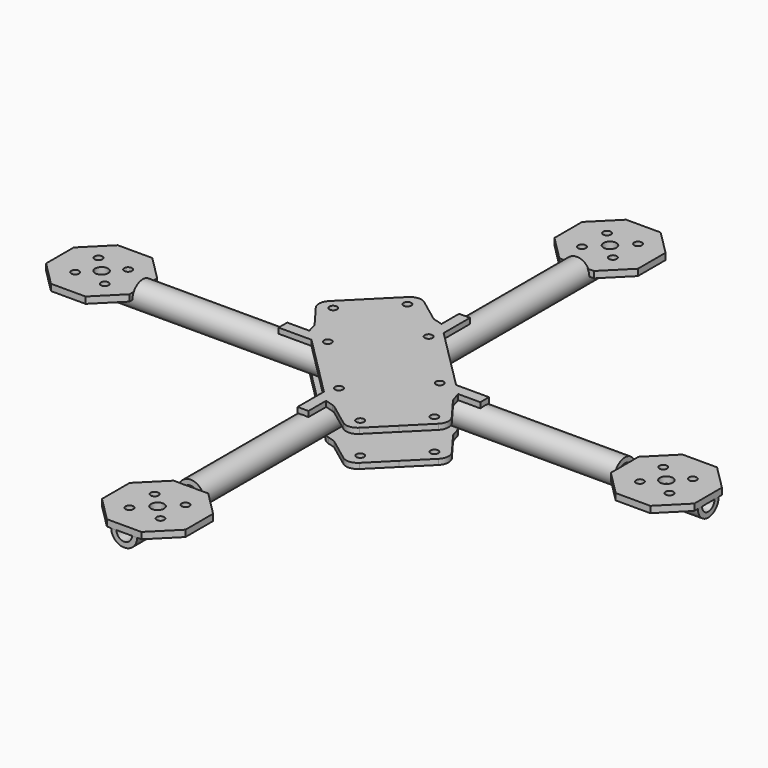
from build123d import *

# Parameters (mm, degrees)
F0_R      = 5
F0_R_2    = 3
F1_DEPTH  = 125
F2_R      = 5
F2_R_2    = 3
F3_DEPTH  = 125
F4_W      = 32.1564
F4_H      = 10
F4_W_2    = 10
F4_H_2    = 32.1564
F5_DEPTH  = 5
F6_R      = 1.5
F6_R_2    = 2.5
F7_DEPTH  = 2.5
F10_START = 4.9
F9_R      = 1.5
F10_DEPTH = 2.1
F11_START = -4.9
F8_R      = 1.5
F11_DEPTH = 2.1
F13_R     = 4.5
F14_DEPTH = 4.9
F15_DEPTH = 1.8


with BuildPart() as f1:
    # F0 (on Front) → F1 (new body, symmetric)
    with BuildSketch(Plane.XZ):
        Circle(F0_R)
        Circle(F0_R_2, mode=Mode.SUBTRACT)
    extrude(amount=F1_DEPTH, both=True)

    # F2 (on Right) → F3 (join, symmetric)
    with BuildSketch(Plane.YZ):
        Circle(F2_R)
        Circle(F2_R_2, mode=Mode.SUBTRACT)
    extrude(amount=F3_DEPTH, both=True)

    # F4 (on Top) → F5 (cut)
    with BuildSketch(Plane.XY):
        with Locations((-108.9321598411, 0)):
            Rectangle(F4_W, F4_H)
        with Locations((108.967140317, 0)):
            Rectangle(F4_W, F4_H)
        with Locations((0, -109.0278699994)):
            Rectangle(F4_W_2, F4_H_2)
        with Locations((0, 109.0732887387)):
            Rectangle(F4_W_2, F4_H_2)
    extrude(amount=F5_DEPTH, mode=Mode.SUBTRACT)

    # F9 (on Top) → F10 (join)
    with BuildSketch(Plane.XY.offset(F10_START)):
        Polygon((-2.1103437409, -26.1876452635), (-2.1221400494, -38.8710911611), (2.0778599506, -38.8749973941), (2.0857654189, -30.3750010704), (5.9862002003, -31.4909389315), (18.1213715317, -40.5843017695), (29.3425025053, -29.3759454568), (40.5636334788, -18.1675891441), (31.4840996514, -6.0220674828), (30.3726054794, -2.1203640728), (38.8726052937, -2.1221409117), (38.8734832615, 2.077860813), (26.1900321555, 2.0805121601), (14.1501879482, 14.1340787118), (2.1103437409, 26.1876452635), (2.1221400494, 38.8710911611), (-2.0778599506, 38.8749973941), (-2.0857654189, 30.3750010704), (-5.9862002003, 31.4909389315), (-18.1213715317, 40.5843017695), (-29.3425025053, 29.3759454568), (-40.5636334788, 18.1675891441), (-31.4840996514, 6.0220674828), (-30.3726054794, 2.1203640728), (-38.8726052937, 2.1221409117), (-38.8734832615, -2.077860813), (-26.1900321555, -2.0805121601), (-14.1501879482, -14.1340787118), align=None)
        with Locations((-0.0122832928, -21.5667533282)):
            Circle(F9_R, mode=Mode.SUBTRACT)
        with Locations((18.1213715317, -34.0167023034)):
            Circle(F9_R, mode=Mode.SUBTRACT)
        with Locations((33.9960382735, -18.1601080254)):
            Circle(F9_R, mode=Mode.SUBTRACT)
        with Locations((21.5667533282, -0.0122832928)):
            Circle(F9_R, mode=Mode.SUBTRACT)
        with Locations((-21.5667533282, 0.0122832928)):
            Circle(F9_R, mode=Mode.SUBTRACT)
        with Locations((-33.9960382735, 18.1601080254)):
            Circle(F9_R, mode=Mode.SUBTRACT)
        with Locations((-18.1213715317, 34.0167023034)):
            Circle(F9_R, mode=Mode.SUBTRACT)
        with Locations((0.0122832928, 21.5667533282)):
            Circle(F9_R, mode=Mode.SUBTRACT)
    extrude(amount=F10_DEPTH)

    # F8 (on Top) → F11 (join)
    with BuildSketch(Plane.XY.offset(F11_START)):
        Polygon((-30.3480259508, 2.1203644871), (2.1103449474, -30.375000656), (6.0107797288, -31.4909385172), (18.1459510603, -40.5843013552), (29.3670820338, -29.3759450425), (40.5882130073, -18.1675887297), (31.5086791799, -6.0220670685), (30.3971850079, -2.1203636585), (-2.0611858903, 30.3750014847), (-5.9616206717, 31.4909393458), (-18.0967920032, 40.5843021838), (-29.3179229767, 29.3759458711), (-40.5390539503, 18.1675895584), (-31.4595201228, 6.0220678971), align=None)
        with Locations((0.0122962358, -21.5667529139)):
            Circle(F8_R, mode=Mode.SUBTRACT)
        with Locations((18.1459510603, -34.0167018891)):
            Circle(F8_R, mode=Mode.SUBTRACT)
        with Locations((34.0206178021, -18.1601076111)):
            Circle(F8_R, mode=Mode.SUBTRACT)
        with Locations((21.5913328568, -0.0122828784)):
            Circle(F8_R, mode=Mode.SUBTRACT)
        with Locations((-21.5421737997, 0.0122837071)):
            Circle(F8_R, mode=Mode.SUBTRACT)
        with Locations((-33.971458745, 18.1601084397)):
            Circle(F8_R, mode=Mode.SUBTRACT)
        with Locations((-18.0967920032, 34.0167027177)):
            Circle(F8_R, mode=Mode.SUBTRACT)
        with Locations((0.0368628213, 21.5667537425)):
            Circle(F8_R, mode=Mode.SUBTRACT)
    extrude(amount=-F11_DEPTH)

    # F13
    f13_edges = [f1.edges().sort_by_distance(p)[0] for p in [
        (-40.539054, 18.16759, -5.95),
        (-30.348026, 2.120364, -5.95),
        (2.110345, -30.375001, -5.95),
        (18.145951, -40.584301, -5.95),
        (18.121372, -40.584302, 5.95),
        (5.9862, -31.490939, 5.95),
        (40.563633, -18.167589, 5.95),
        (31.4841, -6.022067, 5.95),
        (40.588213, -18.167589, -5.95),
        (31.508679, -6.022067, -5.95),
        (30.397185, -2.120364, -5.95),
        (-40.563633, 18.167589, 5.95),
        (-18.096792, 40.584302, -5.95),
        (-18.121372, 40.584302, 5.95),
    ]]
    fillet(f13_edges, radius=F13_R)

    # F12 (on Top) → F14 (cut)
    with BuildSketch(Plane.XY):
        Polygon((4.5961940777, -23.6880771697), (23.6880771697, -4.5961940777), (-4.5961940777, 23.6880771697), (-23.6880771697, 4.5961940777), align=None)
    extrude(amount=F14_DEPTH, mode=Mode.SUBTRACT)

    # F12 (on Top) → F15 (cut)
    with BuildSketch(Plane.XY):
        Polygon((4.5961940777, -23.6880771697), (23.6880771697, -4.5961940777), (-4.5961940777, 23.6880771697), (-23.6880771697, 4.5961940777), align=None)
    extrude(amount=-F15_DEPTH, mode=Mode.SUBTRACT)


with BuildPart() as f7:
    # F6 (on Top) → F7 (new body)
    with BuildSketch(Plane.XY):
        Polygon((-124.9948428626, 6.9392809492), (-124.9948428626, -6.3758818525), (-115.5796009529, -15.7911237622), (-102.2644381512, -15.7911237622), (-92.8491962416, -6.3758818525), (-92.8491962416, 6.9392809492), (-102.2644381512, 16.3545228588), (-115.5796009529, 16.3545228588), align=None)
        with Locations((-114.5792737574, -5.374754717)):
            Circle(F6_R, mode=Mode.SUBTRACT)
        with Locations((-102.9116119402, -5.72870812)):
            Circle(F6_R, mode=Mode.SUBTRACT)
        with Locations((-114.9324271639, 6.2921072167)):
            Circle(F6_R, mode=Mode.SUBTRACT)
        with Locations((-108.9220195521, 0.2816995483)):
            Circle(F6_R_2, mode=Mode.SUBTRACT)
        with Locations((-103.2647653467, 5.9381538137)):
            Circle(F6_R, mode=Mode.SUBTRACT)
    extrude(amount=F7_DEPTH)


with BuildPart() as f7b:
    # F6 (on Top) → F7, piece 2 (new body)
    with BuildSketch(Plane.XY):
        Polygon((6.7628073185, 124.8734737628), (-6.5523554832, 124.8734737628), (-15.9675973928, 115.4582318532), (-15.9675973928, 102.1430690515), (-6.5523554832, 92.7278271418), (6.7628073185, 92.7278271418), (16.1780492282, 102.1430690515), (16.1780492282, 115.4582318532), align=None)
        with Locations((-5.9051817507, 102.7902428405)):
            Circle(F6_R, mode=Mode.SUBTRACT)
        with Locations((-5.5512283477, 114.4579046577)):
            Circle(F6_R, mode=Mode.SUBTRACT)
        with Locations((5.761680183, 103.143396247)):
            Circle(F6_R, mode=Mode.SUBTRACT)
        with Locations((0.1052259177, 108.8006504523)):
            Circle(F6_R_2, mode=Mode.SUBTRACT)
        with Locations((6.115633586, 114.8110580642)):
            Circle(F6_R, mode=Mode.SUBTRACT)
    extrude(amount=F7_DEPTH)


with BuildPart() as f7c:
    # F6 (on Top) → F7, piece 3 (new body)
    with BuildSketch(Plane.XY):
        Polygon((-6.6298596531, -125.0496650928), (6.6853031486, -125.0496650928), (16.1005450583, -115.6344231831), (16.1005450583, -102.3192603815), (6.6853031486, -92.9040184718), (-6.6298596531, -92.9040184718), (-16.0451015627, -102.3192603815), (-16.0451015627, -115.6344231831), align=None)
        with Locations((-5.9826859206, -114.9872493941)):
            Circle(F6_R, mode=Mode.SUBTRACT)
        with Locations((-5.6287325176, -103.3195875769)):
            Circle(F6_R, mode=Mode.SUBTRACT)
        with Locations((5.6841760131, -114.6340959877)):
            Circle(F6_R, mode=Mode.SUBTRACT)
        with Locations((0.0277217478, -108.9768417823)):
            Circle(F6_R_2, mode=Mode.SUBTRACT)
        with Locations((6.0381294161, -102.9664341705)):
            Circle(F6_R, mode=Mode.SUBTRACT)
    extrude(amount=F7_DEPTH)


with BuildPart() as f7d:
    # F6 (on Top) → F7, piece 4 (new body)
    with BuildSketch(Plane.XY):
        Polygon((124.9988819355, -6.7330110788), (124.9988819355, 6.5821517229), (115.5836400258, 15.9973936325), (102.2684772241, 15.9973936325), (92.8532353145, 6.5821517229), (92.8532353145, -6.7330110788), (102.2684772241, -16.1482529885), (115.5836400258, -16.1482529885), align=None)
        with Locations((103.2688044196, -5.7318839433)):
            Circle(F6_R, mode=Mode.SUBTRACT)
        with Locations((114.9364662368, -6.0858373463)):
            Circle(F6_R, mode=Mode.SUBTRACT)
        with Locations((108.926058625, -0.075429678)):
            Circle(F6_R_2, mode=Mode.SUBTRACT)
        with Locations((102.9156510131, 5.9349779904)):
            Circle(F6_R, mode=Mode.SUBTRACT)
        with Locations((114.5833128303, 5.5810245874)):
            Circle(F6_R, mode=Mode.SUBTRACT)
    extrude(amount=F7_DEPTH)


solid = Compound([f1.part, f7.part, f7b.part, f7c.part, f7d.part])
